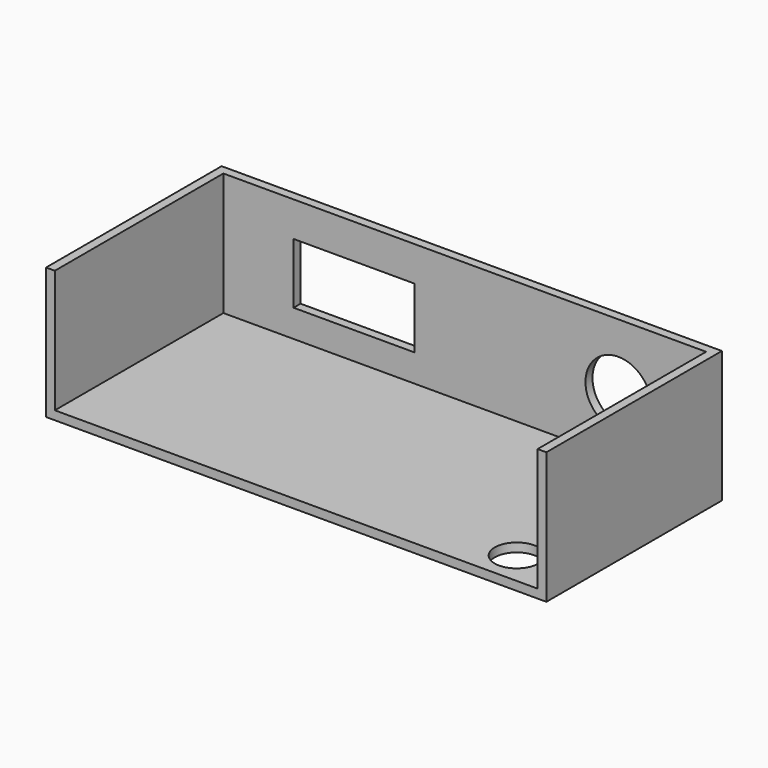
from build123d import *

# Parameters (mm, degrees)
F1_DEPTH = 50
F0_W     = 110
F0_H     = 28
F0_R     = 7.5
F0_W_2   = 27.6
F0_H_2   = 13.8
F2_DEPTH = 2
F4_D     = 10


with BuildPart() as f1:
    # F0 (on Front) → F1 (new body)
    with BuildSketch(Plane.XZ):
        Polygon((0, 30), (0, 0), (114, 0), (114, 30), (112, 30), (112, 2), (2, 2), (2, 30), align=None)
    extrude(amount=F1_DEPTH)

    # F0 (on Front) → F2 (join)
    with BuildSketch(Plane.XZ):
        with Locations((57, 16)):
            Rectangle(F0_W, F0_H)
        with Locations((92.0000001788, 14.9999996647)):
            Circle(F0_R, mode=Mode.SUBTRACT)
        with Locations((31.7942920804, 15.1659395412)):
            Rectangle(F0_W_2, F0_H_2, mode=Mode.SUBTRACT)
    extrude(amount=F2_DEPTH)

    # F4 (through all)
    with Locations(Plane(origin=(0, 0, 0), x_dir=(1, 0, 0), z_dir=(0, 0, -1))):
        with Locations((101.1054217815, 42.3318594694)):
            Hole(F4_D / 2)


solid = f1.part
